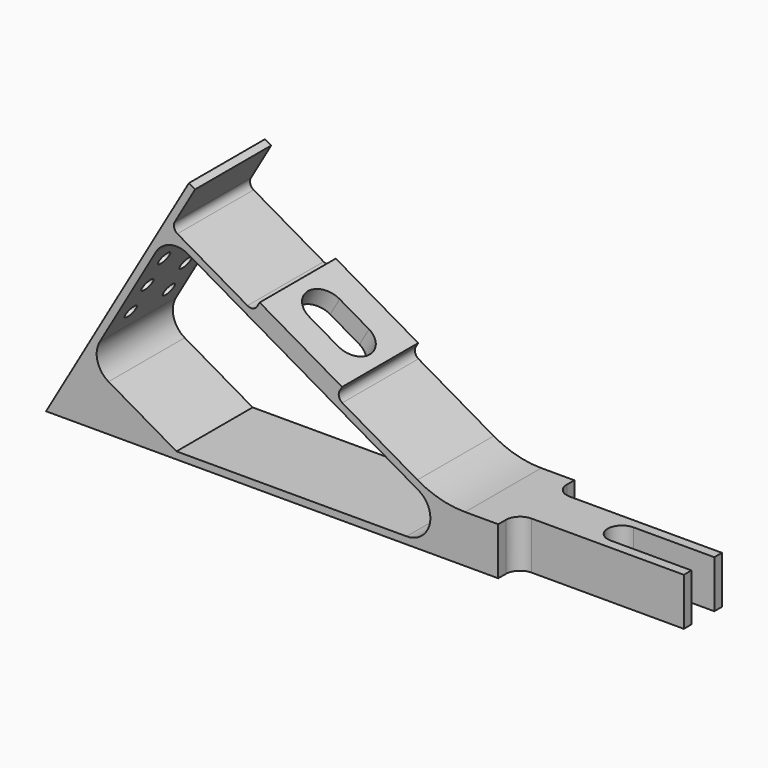
from build123d import *

# Parameters (mm, degrees)
F1_DEPTH  = 20
F2_R      = 1.5
F3_R      = 20
F4_W      = 35
F4_H      = 5
F5_DEPTH  = 10.001
F6_R      = 3
F8_DEPTH  = 4
F9_R      = 5.5
F9_R_2    = 4.25
F10_DEPTH = 2
F9_R_3    = 1.395
F11_DEPTH = 1.5
F12_DEPTH = 112.584302492


with BuildPart() as f1:
    # F0 (on Front) → F1 (new body)
    with BuildSketch(Plane.XZ):
        Polygon((30, 51.9615242271), (0, 0), (130, 0), (130, 10), (82.6794919243, 10), (60.9400542571, 22.5512701892), (62.1900542571, 24.7163336987), (44.8695461814, 34.7163336987), (43.6195461814, 32.5512701892), (26.2990381057, 42.5512701892), (31.2990381057, 51.2115242271), align=None)
        with BuildLine():
            Line((75.7416697508, 1.5), (27.4019237886, 1.5))
            Line((27.4019237886, 1.5), (13.1291651246, 9.7403810568))
            ThreePointArc((13.1291651246, 9.7403810568), (10.7995359932, 12.7764128502), (11.2990381057, 16.5705080757))
            Line((11.2990381057, 16.5705080757), (23.0490381057, 36.9221050646))
            ThreePointArc((23.0490381057, 36.9221050646), (26.0850698991, 39.2517341961), (29.8791651246, 38.7522320835))
            Line((29.8791651246, 38.7522320835), (78.2416697508, 10.8301270189))
            ThreePointArc((78.2416697508, 10.8301270189), (80.5712988822, 5.2059047745), (75.7416697508, 1.5))
        make_face(mode=Mode.SUBTRACT)
    extrude(amount=-F1_DEPTH)

    # F2
    f2_edges = [f1.edges().sort_by_distance(p)[0] for p in [
        (60.940054, 10, 22.55127),
        (43.619546, 10, 32.55127),
        (26.299038, 10, 42.55127),
    ]]
    fillet(f2_edges, radius=F2_R)

    # F3
    f3_edges = [f1.edges().sort_by_distance(p)[0] for p in [
        (82.679492, 10, 10),
    ]]
    fillet(f3_edges, radius=F3_R)

    # F4 (on face) → F5 (cut, through all)
    with BuildSketch(Plane.XY.offset(10)):
        with Locations((112.5, 2.5)):
            Rectangle(F4_W, F4_H)
        with Locations((112.5, 17.5)):
            Rectangle(F4_W, F4_H)
        with BuildLine():
            Line((113, 7), (130, 7))
            Line((130, 7), (130, 13))
            Line((130, 13), (113, 13))
            ThreePointArc((113, 13), (110, 10), (113, 7))
        make_face()
    extrude(amount=-F5_DEPTH, mode=Mode.SUBTRACT)

    # F6
    f6_edges = [f1.edges().sort_by_distance(p)[0] for p in [
        (95, 5, 5),
        (95, 15, 5),
    ]]
    fillet(f6_edges, radius=F6_R)

    # F7 (on face) → F8 (cut, through all)
    with BuildSketch(Plane(origin=(26.25, 0, 45.4663336987), x_dir=(0.8660254038, 0, -0.5), z_dir=(0.5, 0, 0.8660254038))):
        with BuildLine():
            Line((31.5, 14), (31.5, 6))
            Line((31.5, 6), (35, 6))
            ThreePointArc((35, 6), (39.0003891108, 9.9449782278), (35.1115892082, 14))
            Line((35.1115892082, 14), (31.5, 14))
        make_face()
        with BuildLine():
            Line((28.1115892082, 6), (31.5, 6))
            Line((31.5, 6), (31.5, 14))
            Line((31.5, 14), (28, 14))
            ThreePointArc((28, 14), (23.9996108892, 9.9434217088), (28.1115892082, 6))
        make_face()
    extrude(amount=-F8_DEPTH, mode=Mode.SUBTRACT)

    # F9 (on face) → F10 (cut)
    with BuildSketch(Plane(origin=(0, 0, 0), x_dir=(0, -1, 0), z_dir=(-0.8660254038, 0, 0.5))):
        with Locations((-10, 7.5)):
            Circle(F9_R)
        with Locations((-10, 7.5)):
            Circle(F9_R_2, mode=Mode.SUBTRACT)
    extrude(amount=-F10_DEPTH, mode=Mode.SUBTRACT)

    # F9 (on face) → F11 (cut, through all)
    with BuildSketch(Plane(origin=(0, 0, 0), x_dir=(0, -1, 0), z_dir=(-0.8660254038, 0, 0.5))):
        with Locations((-15, 39)):
            Circle(F9_R_3)
        with Locations((-5, 39)):
            Circle(F9_R_3)
        with Locations((-5, 32)):
            Circle(F9_R_3)
        with Locations((-5, 25)):
            Circle(F9_R_3)
        with Locations((-15, 32)):
            Circle(F9_R_3)
        with Locations((-15, 25)):
            Circle(F9_R_3)
    extrude(amount=-F11_DEPTH, mode=Mode.SUBTRACT)

    # F9 (on face) → F12 (cut, through all)
    with BuildSketch(Plane(origin=(0, 0, 0), x_dir=(0, -1, 0), z_dir=(-0.8660254038, 0, 0.5))):
        with Locations((-10, 7.5)):
            Circle(F9_R_2)
    extrude(amount=-F12_DEPTH, mode=Mode.SUBTRACT)


solid = f1.part
